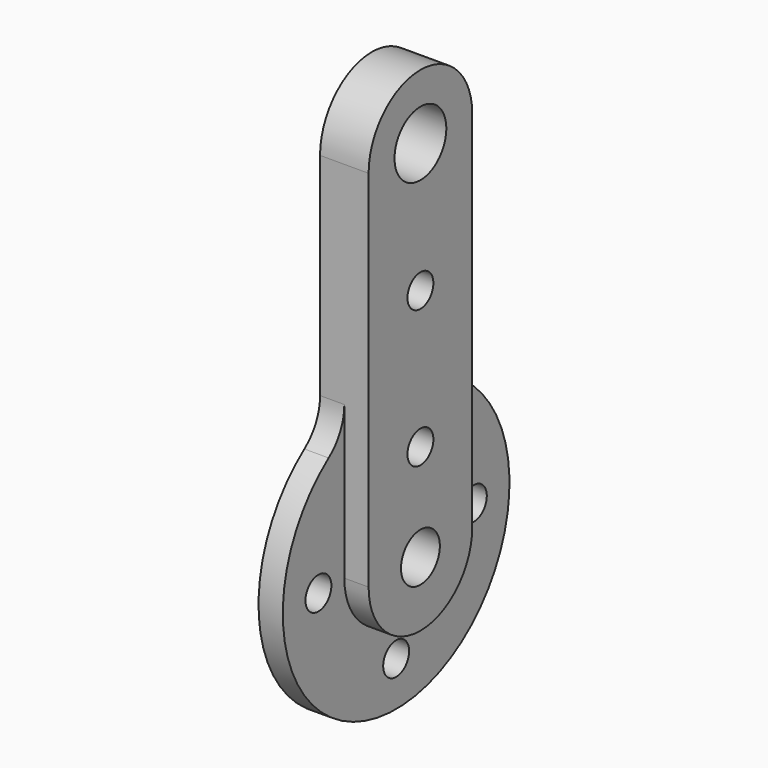
from build123d import *

# Parameters (mm, degrees)
F0_R     = 2
F0_R_2   = 3
F0_R_3   = 4
F1_DEPTH = 6
F2_R     = 2
F3_DEPTH = 6.001
F5_DEPTH = 3


with BuildPart() as f1:
    # F0 (on Right) → F1 (new body)
    with BuildSketch(Plane.YZ):
        with BuildLine():
            ThreePointArc((-8, 18.874586), (-8.640578, 16.177069), (-10.425532, 14.055543))
            ThreePointArc((-10.425532, 14.055543), (0, -17.5), (10.425532, 14.055543))
            ThreePointArc((10.425532, 14.055543), (8.640578, 16.177069), (8, 18.874586))
            Line((8, 18.874586), (8, 45))
            ThreePointArc((8, 45), (0, 53), (-8, 45))
            Line((-8, 45), (-8, 18.874586))
        make_face()
        with Locations((-12, 0)):
            Circle(F0_R, mode=Mode.SUBTRACT)
        with Locations((0, -12)):
            Circle(F0_R, mode=Mode.SUBTRACT)
        Circle(F0_R_2, mode=Mode.SUBTRACT)
        with Locations((0, 12)):
            Circle(F0_R, mode=Mode.SUBTRACT)
        with Locations((12, 0)):
            Circle(F0_R, mode=Mode.SUBTRACT)
        with Locations((0, 45)):
            Circle(F0_R_3, mode=Mode.SUBTRACT)
    extrude(amount=F1_DEPTH)

    # F2 (on face) → F3 (cut, through all)
    with BuildSketch(Plane(origin=(0, 0, 0), x_dir=(0, -1, 0), z_dir=(-1, 0, 0))):
        with Locations((0, 29)):
            Circle(F2_R)
    extrude(amount=-F3_DEPTH, mode=Mode.SUBTRACT)

    # F4 (on face) → F5 (cut)
    with BuildSketch(Plane.YZ.offset(6)):
        with BuildLine():
            Line((-8, 0), (-8, 18.874586))
            ThreePointArc((-8, 18.874586), (0, -20.5), (8, 18.874586))
            Line((8, 18.874586), (8, 0))
            ThreePointArc((8, 0), (0, -8), (-8, 0))
        make_face()
    extrude(amount=-F5_DEPTH, mode=Mode.SUBTRACT)


solid = f1.part
